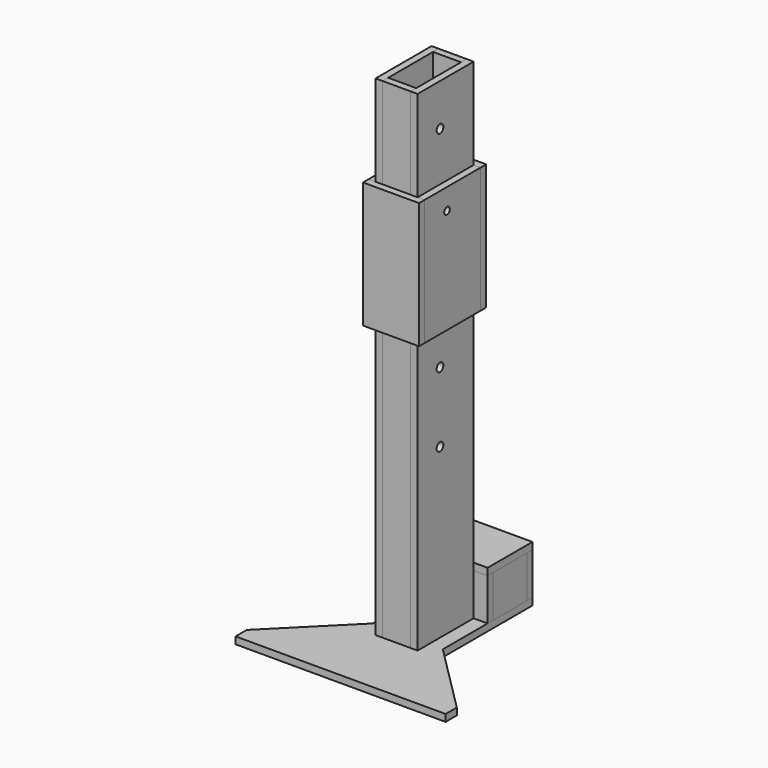
from build123d import *

# Parameters (mm, degrees)
PAD_DEPTH    = 5
SKETCH006_W  = 50
SKETCH006_H  = 30
PAD006_DEPTH = 5
SKETCH007_W  = 50
SKETCH007_H  = 30
PAD007_DEPTH = 5
SKETCH008_W  = 30
SKETCH008_H  = 30
PAD008_DEPTH = 5
SKETCH009_W  = 30
SKETCH009_H  = 30
PAD009_DEPTH = 5
SKETCH010_W  = 50
SKETCH010_H  = 40
PAD010_DEPTH = 5
SKETCH011_W  = 20
SKETCH011_H  = 350
PAD011_DEPTH = 5
SKETCH012_W  = 50
SKETCH012_H  = 350
SKETCH012_R  = 3
PAD012_DEPTH = 5
SKETCH013_W  = 50
SKETCH013_H  = 90
SKETCH013_R  = 2.5
PAD013_DEPTH = 5
SKETCH014_W  = 40
SKETCH014_H  = 90
PAD014_DEPTH = 5


with BuildPart() as pad:
    # Sketch → Pad (new body)
    with BuildSketch(Plane.XY):
        Polygon((-25, 80), (25, 80), (25, 0), (75, -50), (75, -60), (-75, -60), (-75, -50), (-25, 0), align=None)
    extrude(amount=PAD_DEPTH)


with BuildPart() as pad006:
    # Sketch006 → Pad006 (new body)
    with BuildSketch(Plane.XZ.offset(-80)):
        with Locations((0, 20)):
            Rectangle(SKETCH006_W, SKETCH006_H)
    extrude(amount=PAD006_DEPTH)


with BuildPart() as pad007:
    # Sketch007 → Pad007 (new body)
    with BuildSketch(Plane.XZ.offset(-45)):
        with Locations((0, 20)):
            Rectangle(SKETCH007_W, SKETCH007_H)
    extrude(amount=PAD007_DEPTH)


with BuildPart() as pad008:
    # Sketch008 → Pad008 (new body)
    with BuildSketch(Plane.YZ.offset(20)):
        with Locations((60, 20)):
            Rectangle(SKETCH008_W, SKETCH008_H)
    extrude(amount=PAD008_DEPTH)


with BuildPart() as pad009:
    # Sketch009 → Pad009 (new body)
    with BuildSketch(Plane.YZ.offset(-25)):
        with Locations((60, 20)):
            Rectangle(SKETCH009_W, SKETCH009_H)
    extrude(amount=PAD009_DEPTH)


with BuildPart() as pad010:
    # Sketch010 → Pad010 (new body)
    with BuildSketch(Plane.XY.offset(35)):
        with Locations((0, 60)):
            Rectangle(SKETCH010_W, SKETCH010_H)
    extrude(amount=PAD010_DEPTH)


with BuildPart() as pad011:
    # Sketch011 → Pad011 (new body)
    with BuildSketch(Plane.XZ.offset(5)):
        with Locations((0, 180)):
            Rectangle(SKETCH011_W, SKETCH011_H)
    extrude(amount=PAD011_DEPTH)


with BuildPart() as pad012:
    # Sketch012 → Pad012 (new body)
    with BuildSketch(Plane.YZ.offset(10)):
        with Locations((15, 180)):
            Rectangle(SKETCH012_W, SKETCH012_H)
        with Locations((10, 325)):
            Circle(SKETCH012_R, mode=Mode.SUBTRACT)
        with Locations((10, 275)):
            Circle(SKETCH012_R, mode=Mode.SUBTRACT)
        with Locations((10, 225)):
            Circle(SKETCH012_R, mode=Mode.SUBTRACT)
        with Locations((10, 175)):
            Circle(SKETCH012_R, mode=Mode.SUBTRACT)
        with Locations((10, 125)):
            Circle(SKETCH012_R, mode=Mode.SUBTRACT)
    extrude(amount=PAD012_DEPTH)


with BuildPart() as clone_of_pad012:
    # Clone base: copy of Pad012
    add(pad012.part)


with BuildPart() as clone_of_pad012_1:
    # Clone placement: moved
    add(clone_of_pad012.part.moved(Location((-25, 0, 0))))


with BuildPart() as clone_of_pad011:
    # Clone001 base: copy of Pad011
    add(pad011.part)


with BuildPart() as clone_of_pad011_1:
    # Clone001 placement: moved
    add(clone_of_pad011.part.moved(Location((0, 45, 0))))


with BuildPart() as pad013:
    # Sketch013 → Pad013 (new body)
    with BuildSketch(Plane.YZ.offset(15)):
        with Locations((15, 245)):
            Rectangle(SKETCH013_W, SKETCH013_H)
        with Locations((10, 275)):
            Circle(SKETCH013_R, mode=Mode.SUBTRACT)
    extrude(amount=PAD013_DEPTH)


with BuildPart() as clone_of_pad013:
    # Clone002 base: copy of Pad013
    add(pad013.part)


with BuildPart() as clone_of_pad013_1:
    # Clone002 placement: moved
    add(clone_of_pad013.part.moved(Location((-35, 0, 0))))


with BuildPart() as pad014:
    # Sketch014 → Pad014 (new body)
    with BuildSketch(Plane.XZ.offset(10)):
        with Locations((0, 245)):
            Rectangle(SKETCH014_W, SKETCH014_H)
    extrude(amount=PAD014_DEPTH)


with BuildPart() as clone_of_pad014:
    # Clone003 base: copy of Pad014
    add(pad014.part)


with BuildPart() as clone_of_pad014_1:
    # Clone003 placement: moved
    add(clone_of_pad014.part.moved(Location((0, 55, 0))))


solid = Compound([pad.part, pad006.part, pad007.part, pad008.part, pad009.part, pad010.part, pad011.part, pad012.part, clone_of_pad012_1.part, clone_of_pad011_1.part, pad013.part, clone_of_pad013_1.part, pad014.part, clone_of_pad014_1.part])
